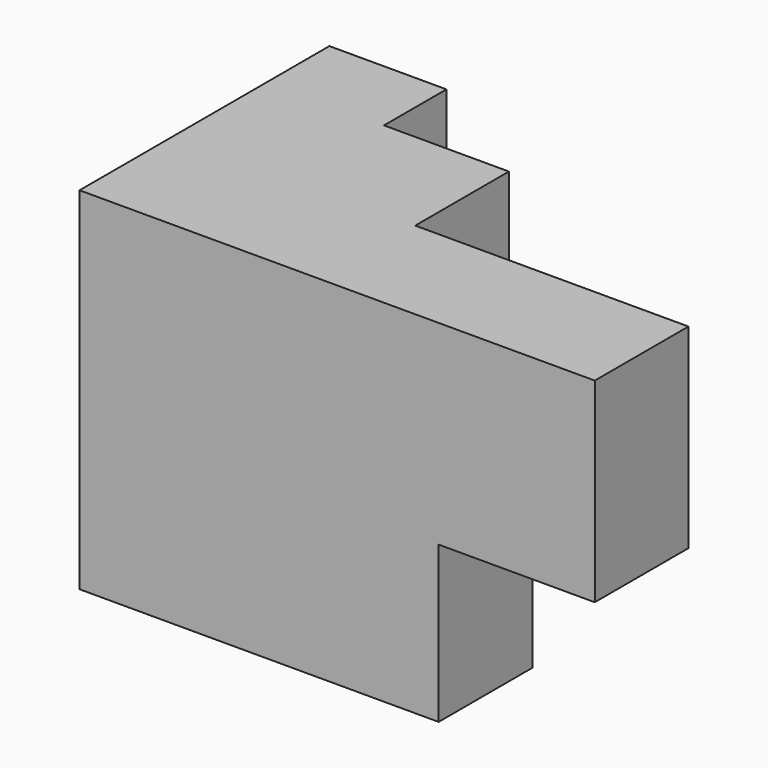
from build123d import *

# Parameters (mm, degrees)
F1_DEPTH = 57.15
F2_W     = 25.4
F2_H     = 25.4
F3_DEPTH = 19.05


with BuildPart() as f1:
    # F0 (on Top) → F1 (new body)
    with BuildSketch(Plane.XY):
        Polygon((0, 50.8), (0, 0), (83.82, 0), (83.82, 19.05), (39.37, 19.05), (39.37, 38.1), (19.05, 38.1), (19.05, 50.8), align=None)
    extrude(amount=-F1_DEPTH)

    # F2 (on face) → F3 (cut, through all)
    with BuildSketch(Plane(origin=(0, 19.05, 0), x_dir=(-1, 0, 0), z_dir=(0, 1, 0))):
        with Locations((-71.12, -44.45)):
            Rectangle(F2_W, F2_H)
    extrude(amount=-F3_DEPTH, mode=Mode.SUBTRACT)


solid = f1.part
